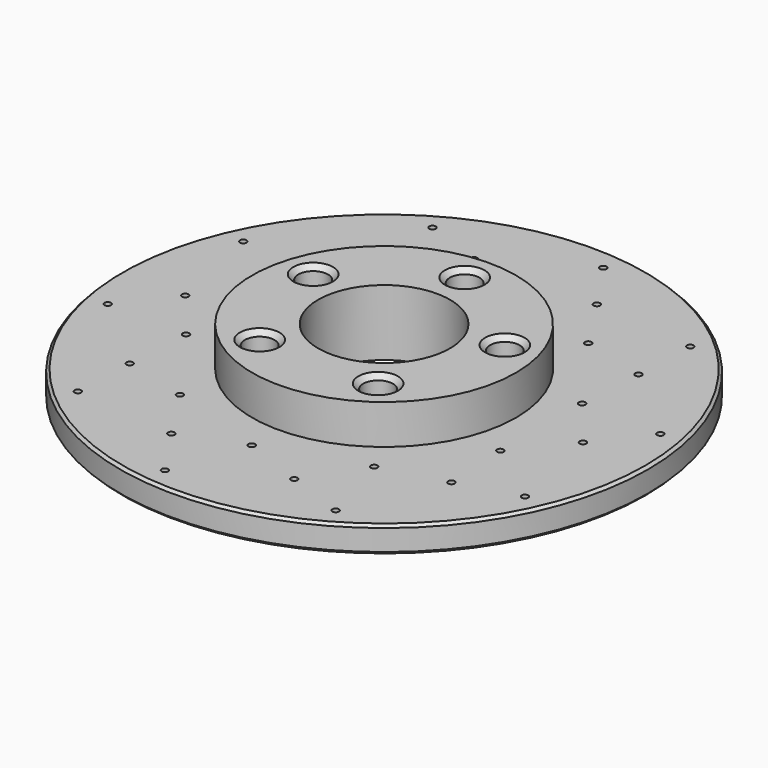
from build123d import *

# Parameters (mm, degrees)
F0_R           = 101.673036
F1_DEPTH       = 10.16
F2_R           = 50.825474
F3_DEPTH       = 15.24
F5_D           = 50.8
F7_D           = 11.43
F7_CSINK_D     = 15.24
F7_CSINK_ANGLE = 90
F9_D           = 2.54
F10_SIZE       = 1.016


with BuildPart() as f1:
    # F0 (on Top) → F1 (new body)
    with BuildSketch(Plane.XY):
        Circle(F0_R)
    extrude(amount=F1_DEPTH)

    # F2 (on face) → F3 (join)
    with BuildSketch(Plane.XY.offset(10.16)):
        Circle(F2_R)
    extrude(amount=F3_DEPTH)

    # F5 (through all)
    with Locations(Plane.XY.offset(25.4)):
        with Locations((0, 0)):
            Hole(F5_D / 2)

    # F7 (through all)
    with Locations(Plane.XY.offset(25.4)):
        with Locations((0, 38.806446), (-36.907123, 11.991851), (-22.809857, -31.395074), (22.809857, -31.395074), (36.907123, 11.991851)):
            CounterSinkHole(F7_D / 2, F7_CSINK_D / 2, counter_sink_angle=F7_CSINK_ANGLE)

    # F9 (through all)
    with Locations(Plane.XY.offset(10.16)):
        with Locations((10.266128, 92.69405), (-46.178724, 81.025341), (-23.668928, 72.845469), (0.032693, 63.665586), (23.668928, 72.845469), (37.448142, 51.487324), (62.789668, 68.956783), (61.966057, 45.020975), (60.559673, 19.642655), (91.329689, 18.880369), (76.594258, 0), (60.539468, -19.704841), (84.984873, -38.407705), (61.966057, -45.020975), (37.395243, -51.525757), (46.178724, -81.025341), (23.668928, -72.845469), (-0.032693, -63.665586), (-10.266128, -92.69405), (-23.668928, -72.845469), (-37.448142, -51.487324), (-62.789668, -68.956783), (-61.966057, -45.020975), (-60.559673, -19.642655), (-91.329689, -18.880369), (-76.594258, 0), (-60.539468, 19.704841), (-84.984873, 38.407705), (-61.966057, 45.020975), (-37.395243, 51.525757)):
            Hole(F9_D / 2)

    # F10
    f10_edges = [f1.edges().sort_by_distance(p)[0] for p in [
        (101.673036, 0, 5.08),
        (-101.673036, 0, 0),
        (-101.673036, 0, 10.16),
    ]]
    chamfer(f10_edges, length=F10_SIZE)


solid = f1.part
